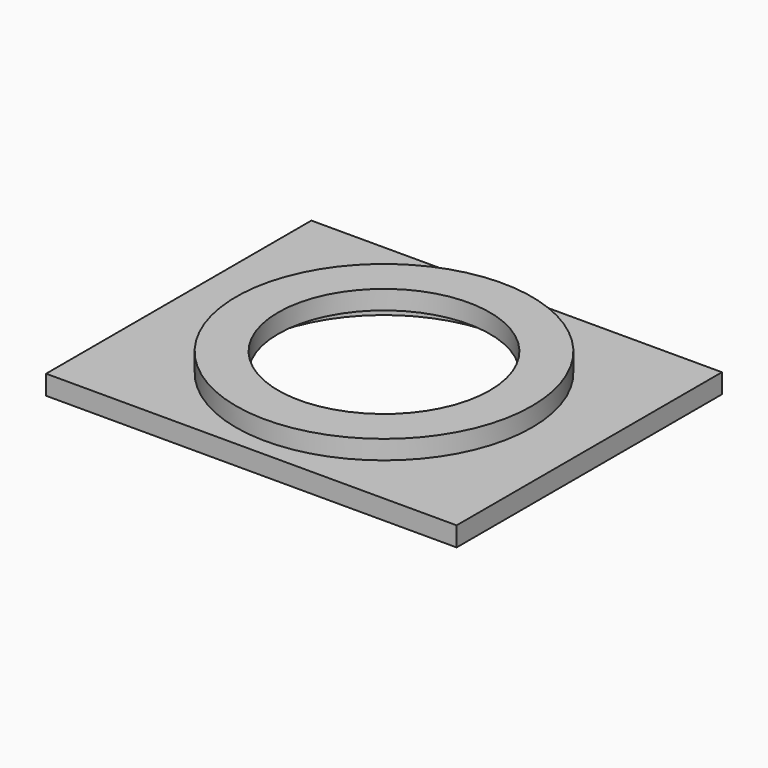
from build123d import *

# Parameters (mm, degrees)
F0_W     = 99.06
F0_H     = 80.01
F0_R     = 35.687
F0_R_2   = 32.639
F1_DEPTH = 4.699
F0_R_3   = 25.527
F2_DEPTH = 4.572


with BuildPart() as f1:
    # F0 (on Top) → F1 (new body)
    with BuildSketch(Plane.XY):
        Rectangle(F0_W, F0_H)
        Circle(F0_R, mode=Mode.SUBTRACT)
        Circle(F0_R)
        Circle(F0_R_2, mode=Mode.SUBTRACT)
    extrude(amount=-F1_DEPTH)

    # F0 (on Top) → F2 (join)
    with BuildSketch(Plane.XY):
        Circle(F0_R)
        Circle(F0_R_2, mode=Mode.SUBTRACT)
        Circle(F0_R_2)
        Circle(F0_R_3, mode=Mode.SUBTRACT)
    extrude(amount=F2_DEPTH)


solid = f1.part
